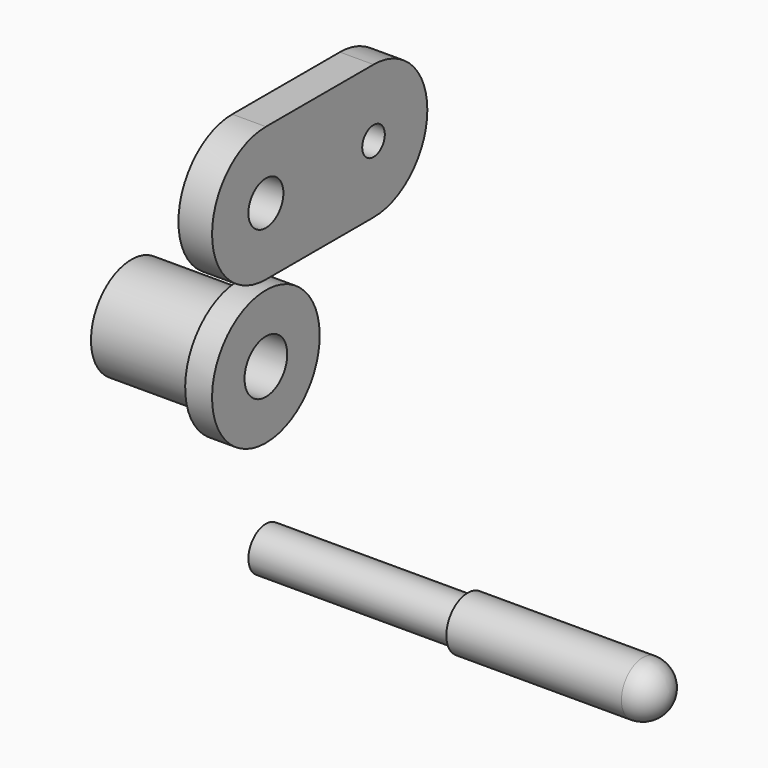
from build123d import *

# Parameters (mm, degrees)
F0_W     = 6
F0_H     = 0.65
F4_R     = 0.65
F4_R_2   = 0.42
F5_DEPTH = 1


with BuildPart() as f1:
    # F0 (on Front) → F1 (revolve)
    with BuildSketch(Plane.XZ):
        with Locations((3, 0.325)):
            Rectangle(F0_W, F0_H)
        with BuildLine():
            Line((6, 0.65), (6, 0))
            Line((6, 0), (12, 0))
            ThreePointArc((12, 0), (11.767516, 0.561266), (11.20625, 0.79375))
            Line((11.20625, 0.79375), (6, 0.79375))
            Line((6, 0.79375), (6, 0.65))
        make_face()
    revolve(axis=Axis((3, 0, 0), (1, 0, 0)))


with BuildPart() as f3:
    # F2 (on Front) → F3 (revolve)
    with BuildSketch(Plane.XZ):
        Polygon((-0.8, 2.764438), (0, 2.764438), (0, 3.970688), (-4, 3.970688), (-4, 3.264438), (-0.8, 3.264438), align=None)
    revolve(axis=Axis((-2.4, 0, 4.764438), (-1, 0, 0)))


with BuildPart() as f5:
    # F4 (on Right) → F5 (new body)
    with BuildSketch(Plane.YZ):
        with BuildLine():
            Line((4, 11.042616), (0, 11.042616))
            ThreePointArc((0, 11.042616), (-2, 9.042616), (0, 7.042616))
            Line((0, 7.042616), (4, 7.042616))
            ThreePointArc((4, 7.042616), (6, 9.042616), (4, 11.042616))
        make_face()
        with Locations((0, 9.042616)):
            Circle(F4_R, mode=Mode.SUBTRACT)
        with Locations((4, 9.042616)):
            Circle(F4_R_2, mode=Mode.SUBTRACT)
    extrude(amount=-F5_DEPTH)


solid = Compound([f1.part, f3.part, f5.part])
